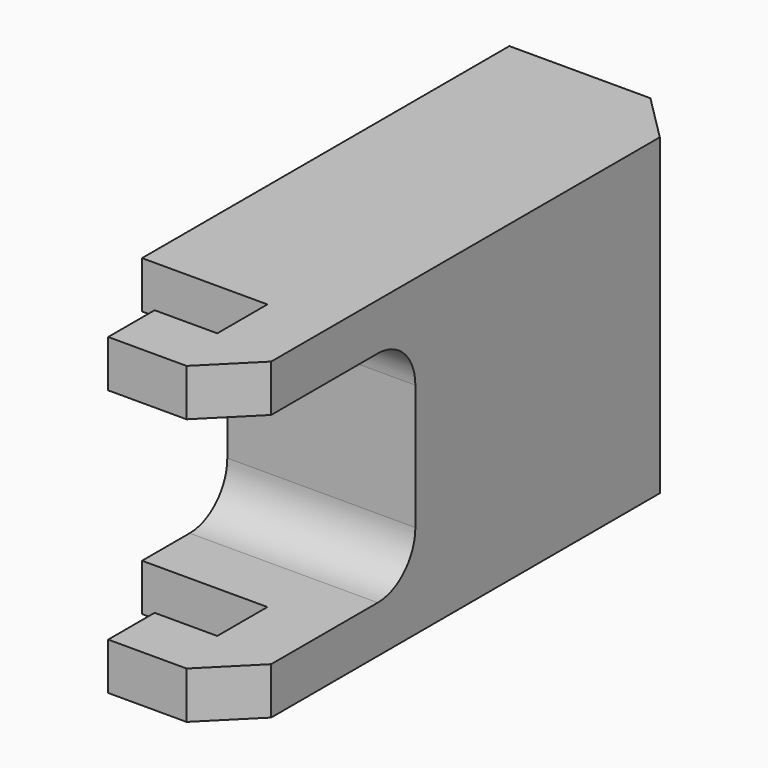
from build123d import *

# Parameters (mm, degrees)
PAD_DEPTH       = 20
CHAMFER_SIZE    = 3
SKETCH001_R     = 1.62
POCKET_DEPTH    = 8
CHAMFER001_SIZE = 1.6
SKETCH002_W     = 14.5
SKETCH002_H     = 14
POCKET001_DEPTH = 12.001
FILLET_R        = 3


with BuildPart() as part:
    # Sketch → Pad (new body)
    with BuildSketch(Plane.XY):
        Polygon((-6, 18.5), (6, 18.5), (6, -18.5), (-2, -18.5), (-2, -14.8), (2, -14.8), (2, -10.8), (-6, -10.8), align=None)
    extrude(amount=PAD_DEPTH)

    # Chamfer
    chamfer_edges = [part.edges().sort_by_distance(p)[0] for p in [
        (6, -18.5, 10),
        (6, 18.5, 10),
    ]]
    chamfer(chamfer_edges, length=CHAMFER_SIZE)

    # Sketch001 → Pocket (cut)
    with BuildSketch(Plane(origin=(-6, 0, 0), x_dir=(0, -1, 0), z_dir=(-1, 0, 0))):
        with Locations((-13.5, 10)):
            Circle(SKETCH001_R)
        with Locations((-1, 10)):
            Circle(SKETCH001_R)
    extrude(amount=-POCKET_DEPTH, mode=Mode.SUBTRACT)

    # Chamfer001
    chamfer001_edges = [part.edges().sort_by_distance(p)[0] for p in [
        (2, 2.62, 10),
        (2, 15.12, 10),
    ]]
    chamfer(chamfer001_edges, length=CHAMFER001_SIZE)

    # Sketch002 → Pocket001 (cut, through all)
    with BuildSketch(Plane.YZ.offset(6)):
        with Locations((-11.25, 10)):
            Rectangle(SKETCH002_W, SKETCH002_H)
    extrude(amount=-POCKET001_DEPTH, mode=Mode.SUBTRACT)

    # Fillet
    fillet_edges = [part.edges().sort_by_distance(p)[0] for p in [
        (0, -4, 17),
        (0, -4, 3),
    ]]
    fillet(fillet_edges, radius=FILLET_R)


solid = part.part
